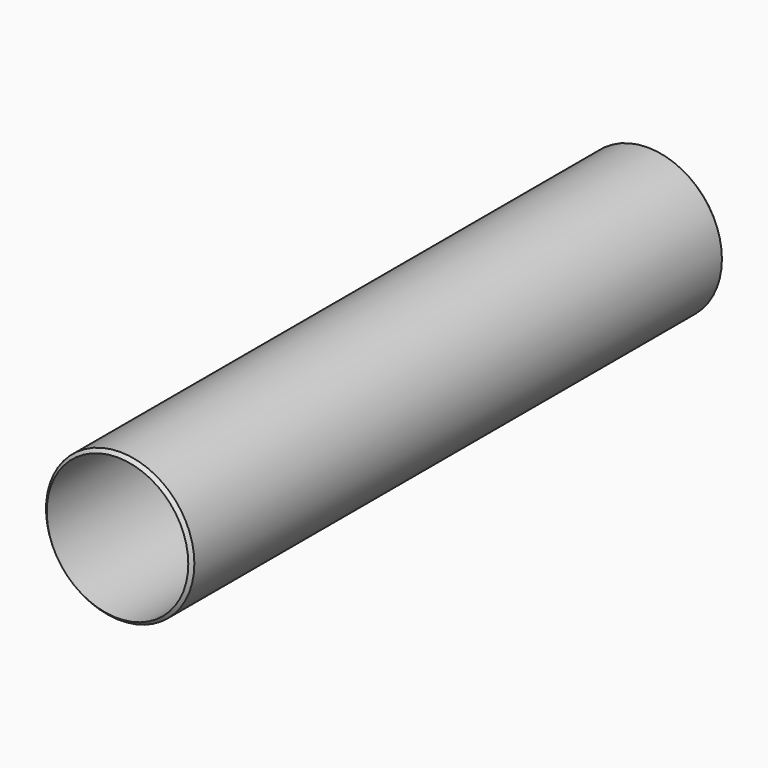
from build123d import *

# Parameters (mm, degrees)
F0_R     = 55
F0_R_2   = 52.5
F1_DEPTH = 500


with BuildPart() as f1:
    # F0 (on Front) → F1 (new body)
    with BuildSketch(Plane.XZ):
        Circle(F0_R)
        Circle(F0_R_2, mode=Mode.SUBTRACT)
    extrude(amount=F1_DEPTH)

    # F2 (on Right) → F3 (revolve, cut)
    with BuildSketch(Plane.YZ):
        Polygon((0, 49.5), (0, 55), (-5.5, 55), align=None)
    revolve(axis=Axis((0, 0, 0), (0, -1, 0)), mode=Mode.SUBTRACT)

    # F4 (on Right) → F5 (revolve, cut)
    with BuildSketch(Plane.YZ):
        Polygon((-500, 49.5), (-494.5, 55), (-500, 55), align=None)
    revolve(axis=Axis((0, -500, 0), (0, -1, 0)), mode=Mode.SUBTRACT)


solid = f1.part
